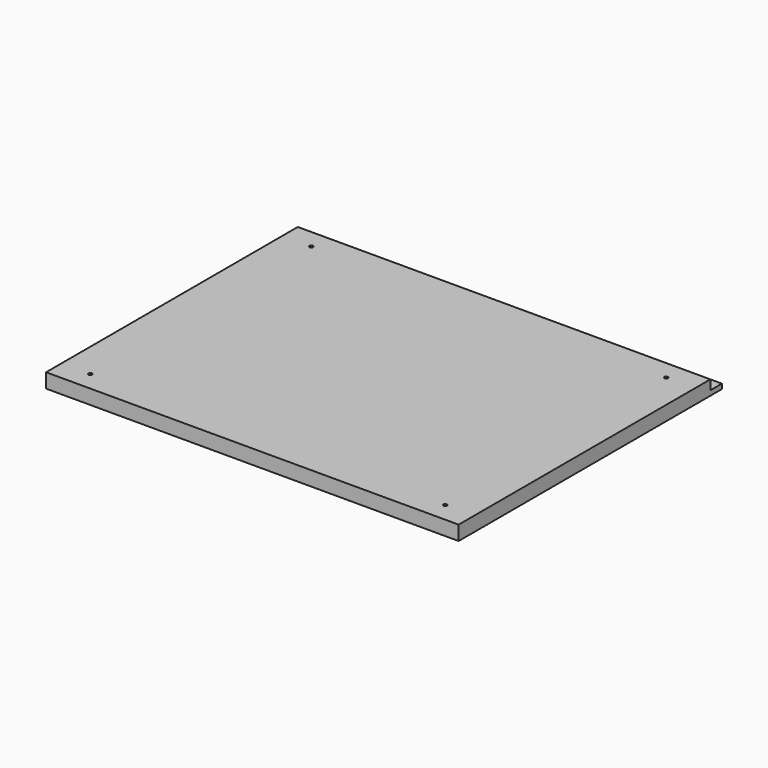
from build123d import *

# Parameters (mm, degrees)
SKETCH043_W     = 514
SKETCH043_H     = 410
PAD016_DEPTH    = 18
SKETCH044_W     = 514
SKETCH044_H     = 18
POCKET027_DEPTH = 12
SKETCH045_R     = 2.25
POCKET028_DEPTH = 18


with BuildPart() as part:
    # Sketch043 → Pad016 (new body)
    with BuildSketch(Plane.XY):
        with Locations((0, 205)):
            Rectangle(SKETCH043_W, SKETCH043_H)
    extrude(amount=PAD016_DEPTH)

    # Sketch044 (on Face6 of Pad016) → Pocket027 (cut)
    with BuildSketch(Plane.XY.offset(18)):
        with Locations((0, 401)):
            Rectangle(SKETCH044_W, SKETCH044_H)
    extrude(amount=-POCKET027_DEPTH, mode=Mode.SUBTRACT)

    # Sketch045 (on Face7 of Pocket027) → Pocket028 (cut)
    with BuildSketch(Plane.XY.offset(18)):
        with Locations((-221, 24)):
            Circle(SKETCH045_R)
        with Locations((-221, 368)):
            Circle(SKETCH045_R)
    pocket028 = extrude(amount=-POCKET028_DEPTH, mode=Mode.SUBTRACT)

    # Mirrored010: Pocket028 across Sketch045 V_Axis
    add(pocket028.mirror(Plane(origin=(0, 0, 18), x_dir=(0, 0, 1), z_dir=(1, 0, 0))), mode=Mode.SUBTRACT)


solid = part.part
